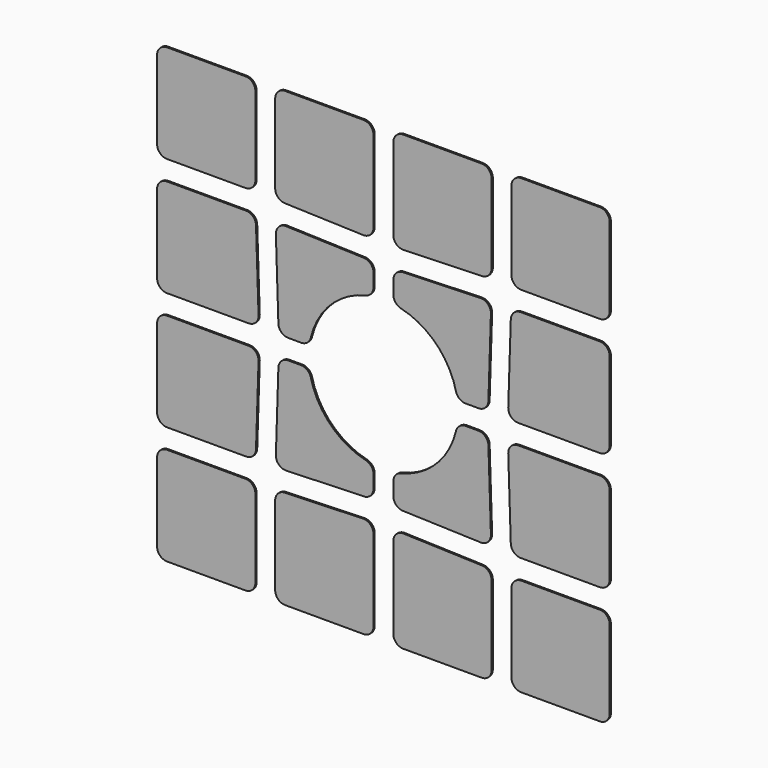
from build123d import *

# Parameters (mm, degrees)
F2_DEPTH = 0.2


with BuildPart() as f2:
    # F1 (on Front) → F2 (new body)
    with BuildSketch(Plane.XZ):
        with BuildLine():
            Line((12.9, 14.2), (2.6, 14.2))
            ThreePointArc((2.6, 14.2), (1.680761, 13.819239), (1.3, 12.9))
            Line((1.3, 12.9), (1.3, 2.6))
            ThreePointArc((1.3, 2.6), (1.680761, 1.680761), (2.6, 1.3))
            Line((2.6, 1.3), (12.9, 1.3))
            ThreePointArc((12.9, 1.3), (13.819239, 1.680761), (14.2, 2.6))
            Line((14.2, 2.6), (14.2, 12.9))
            ThreePointArc((14.2, 12.9), (13.819239, 13.819239), (12.9, 14.2))
        make_face()
        with BuildLine():
            ThreePointArc((18.058086, 14.281843), (17.16606, 13.886817), (16.8, 12.982519))
            Line((16.8, 12.982519), (16.8, 2.6))
            ThreePointArc((16.8, 2.6), (17.180761, 1.680761), (18.1, 1.3))
            Line((18.1, 1.3), (28.4, 1.3))
            ThreePointArc((28.4, 1.3), (29.319239, 1.680761), (29.7, 2.6))
            Line((29.7, 2.6), (29.7, 13.314777))
            ThreePointArc((29.7, 13.314777), (29.304299, 14.248717), (28.358086, 14.614101))
            Line((28.358086, 14.614101), (18.058086, 14.281843))
        make_face()
        with BuildLine():
            ThreePointArc((28.441914, 17.218157), (29.33394, 17.613183), (29.7, 18.517481))
            Line((29.7, 18.517481), (29.7, 20.2088))
            ThreePointArc((29.7, 20.2088), (29.421238, 21.013208), (28.704505, 21.472634))
            ThreePointArc((28.704505, 21.472634), (24.070354, 24.070354), (21.472634, 28.704505))
            ThreePointArc((21.472634, 28.704505), (21.013208, 29.421238), (20.2088, 29.7))
            Line((20.2088, 29.7), (18.517481, 29.7))
            ThreePointArc((18.517481, 29.7), (17.613183, 29.33394), (17.218157, 28.441914))
            Line((17.218157, 28.441914), (16.88874, 18.229978))
            ThreePointArc((16.88874, 18.229978), (17.268825, 17.268825), (18.229978, 16.88874))
            Line((18.229978, 16.88874), (28.441914, 17.218157))
        make_face()
        with BuildLine():
            ThreePointArc((1.3, 18.1), (1.680761, 17.180761), (2.6, 16.8))
            Line((2.6, 16.8), (12.982519, 16.8))
            ThreePointArc((12.982519, 16.8), (13.886817, 17.16606), (14.281843, 18.058086))
            Line((14.281843, 18.058086), (14.614101, 28.358086))
            ThreePointArc((14.614101, 28.358086), (14.248717, 29.304299), (13.314777, 29.7))
            Line((13.314777, 29.7), (2.6, 29.7))
            ThreePointArc((2.6, 29.7), (1.680761, 29.319239), (1.3, 28.4))
            Line((1.3, 28.4), (1.3, 18.1))
        make_face()
        with BuildLine():
            ThreePointArc((43.9, 1.3), (44.819239, 1.680761), (45.2, 2.6))
            Line((45.2, 2.6), (45.2, 12.982519))
            ThreePointArc((45.2, 12.982519), (44.83394, 13.886817), (43.941914, 14.281843))
            Line((43.941914, 14.281843), (33.641914, 14.614101))
            ThreePointArc((33.641914, 14.614101), (32.695701, 14.248717), (32.3, 13.314777))
            Line((32.3, 13.314777), (32.3, 2.6))
            ThreePointArc((32.3, 2.6), (32.680761, 1.680761), (33.6, 1.3))
            Line((33.6, 1.3), (43.9, 1.3))
        make_face()
        with BuildLine():
            ThreePointArc((43.770022, 16.88874), (44.731175, 17.268825), (45.11126, 18.229978))
            Line((45.11126, 18.229978), (44.781843, 28.441914))
            ThreePointArc((44.781843, 28.441914), (44.386817, 29.33394), (43.482519, 29.7))
            Line((43.482519, 29.7), (41.7912, 29.7))
            ThreePointArc((41.7912, 29.7), (40.986792, 29.421238), (40.527366, 28.704505))
            ThreePointArc((40.527366, 28.704505), (37.929646, 24.070354), (33.295495, 21.472634))
            ThreePointArc((33.295495, 21.472634), (32.578762, 21.013208), (32.3, 20.2088))
            Line((32.3, 20.2088), (32.3, 18.517481))
            ThreePointArc((32.3, 18.517481), (32.66606, 17.613183), (33.558086, 17.218157))
            Line((33.558086, 17.218157), (43.770022, 16.88874))
        make_face()
        with BuildLine():
            Line((60.7, 18.1), (60.7, 28.4))
            ThreePointArc((60.7, 28.4), (60.319239, 29.319239), (59.4, 29.7))
            Line((59.4, 29.7), (48.685223, 29.7))
            ThreePointArc((48.685223, 29.7), (47.751283, 29.304299), (47.385899, 28.358086))
            Line((47.385899, 28.358086), (47.718157, 18.058086))
            ThreePointArc((47.718157, 18.058086), (48.113183, 17.16606), (49.017481, 16.8))
            Line((49.017481, 16.8), (59.4, 16.8))
            ThreePointArc((59.4, 16.8), (60.319239, 17.180761), (60.7, 18.1))
        make_face()
        with BuildLine():
            ThreePointArc((60.7, 12.9), (60.319239, 13.819239), (59.4, 14.2))
            Line((59.4, 14.2), (49.1, 14.2))
            ThreePointArc((49.1, 14.2), (48.180761, 13.819239), (47.8, 12.9))
            Line((47.8, 12.9), (47.8, 2.6))
            ThreePointArc((47.8, 2.6), (48.180761, 1.680761), (49.1, 1.3))
            Line((49.1, 1.3), (59.4, 1.3))
            ThreePointArc((59.4, 1.3), (60.319239, 1.680761), (60.7, 2.6))
            Line((60.7, 2.6), (60.7, 12.9))
        make_face()
        with BuildLine():
            ThreePointArc((18.1, 60.7), (17.180761, 60.319239), (16.8, 59.4))
            Line((16.8, 59.4), (16.8, 49.017481))
            ThreePointArc((16.8, 49.017481), (17.16606, 48.113183), (18.058086, 47.718157))
            Line((18.058086, 47.718157), (28.358086, 47.385899))
            ThreePointArc((28.358086, 47.385899), (29.304299, 47.751283), (29.7, 48.685223))
            Line((29.7, 48.685223), (29.7, 59.4))
            ThreePointArc((29.7, 59.4), (29.319239, 60.319239), (28.4, 60.7))
            Line((28.4, 60.7), (18.1, 60.7))
        make_face()
        with BuildLine():
            Line((45.2, 49.017481), (45.2, 59.4))
            ThreePointArc((45.2, 59.4), (44.819239, 60.319239), (43.9, 60.7))
            Line((43.9, 60.7), (33.6, 60.7))
            ThreePointArc((33.6, 60.7), (32.680761, 60.319239), (32.3, 59.4))
            Line((32.3, 59.4), (32.3, 48.685223))
            ThreePointArc((32.3, 48.685223), (32.695701, 47.751283), (33.641914, 47.385899))
            Line((33.641914, 47.385899), (43.941914, 47.718157))
            ThreePointArc((43.941914, 47.718157), (44.83394, 48.113183), (45.2, 49.017481))
        make_face()
        with BuildLine():
            Line((60.7, 49.1), (60.7, 59.4))
            ThreePointArc((60.7, 59.4), (60.319239, 60.319239), (59.4, 60.7))
            Line((59.4, 60.7), (49.1, 60.7))
            ThreePointArc((49.1, 60.7), (48.180761, 60.319239), (47.8, 59.4))
            Line((47.8, 59.4), (47.8, 49.1))
            ThreePointArc((47.8, 49.1), (48.180761, 48.180761), (49.1, 47.8))
            Line((49.1, 47.8), (59.4, 47.8))
            ThreePointArc((59.4, 47.8), (60.319239, 48.180761), (60.7, 49.1))
        make_face()
        with BuildLine():
            ThreePointArc((33.558086, 44.781843), (32.66606, 44.386817), (32.3, 43.482519))
            Line((32.3, 43.482519), (32.3, 41.7912))
            ThreePointArc((32.3, 41.7912), (32.578762, 40.986792), (33.295495, 40.527366))
            ThreePointArc((33.295495, 40.527366), (37.929646, 37.929646), (40.527366, 33.295495))
            ThreePointArc((40.527366, 33.295495), (40.986792, 32.578762), (41.7912, 32.3))
            Line((41.7912, 32.3), (43.482519, 32.3))
            ThreePointArc((43.482519, 32.3), (44.386817, 32.66606), (44.781843, 33.558086))
            Line((44.781843, 33.558086), (45.11126, 43.770022))
            ThreePointArc((45.11126, 43.770022), (44.731175, 44.731175), (43.770022, 45.11126))
            Line((43.770022, 45.11126), (33.558086, 44.781843))
        make_face()
        with BuildLine():
            ThreePointArc((18.229978, 45.11126), (17.268825, 44.731175), (16.88874, 43.770022))
            Line((16.88874, 43.770022), (17.218157, 33.558086))
            ThreePointArc((17.218157, 33.558086), (17.613183, 32.66606), (18.517481, 32.3))
            Line((18.517481, 32.3), (20.2088, 32.3))
            ThreePointArc((20.2088, 32.3), (21.013208, 32.578762), (21.472634, 33.295495))
            ThreePointArc((21.472634, 33.295495), (24.070354, 37.929646), (28.704505, 40.527366))
            ThreePointArc((28.704505, 40.527366), (29.421238, 40.986792), (29.7, 41.7912))
            Line((29.7, 41.7912), (29.7, 43.482519))
            ThreePointArc((29.7, 43.482519), (29.33394, 44.386817), (28.441914, 44.781843))
            Line((28.441914, 44.781843), (18.229978, 45.11126))
        make_face()
        with BuildLine():
            ThreePointArc((49.017481, 45.2), (48.113183, 44.83394), (47.718157, 43.941914))
            Line((47.718157, 43.941914), (47.385899, 33.641914))
            ThreePointArc((47.385899, 33.641914), (47.751283, 32.695701), (48.685223, 32.3))
            Line((48.685223, 32.3), (59.4, 32.3))
            ThreePointArc((59.4, 32.3), (60.319239, 32.680761), (60.7, 33.6))
            Line((60.7, 33.6), (60.7, 43.9))
            ThreePointArc((60.7, 43.9), (60.319239, 44.819239), (59.4, 45.2))
            Line((59.4, 45.2), (49.017481, 45.2))
        make_face()
        with BuildLine():
            ThreePointArc((12.9, 47.8), (13.819239, 48.180761), (14.2, 49.1))
            Line((14.2, 49.1), (14.2, 59.4))
            ThreePointArc((14.2, 59.4), (13.819239, 60.319239), (12.9, 60.7))
            Line((12.9, 60.7), (2.6, 60.7))
            ThreePointArc((2.6, 60.7), (1.680761, 60.319239), (1.3, 59.4))
            Line((1.3, 59.4), (1.3, 49.1))
            ThreePointArc((1.3, 49.1), (1.680761, 48.180761), (2.6, 47.8))
            Line((2.6, 47.8), (12.9, 47.8))
        make_face()
        with BuildLine():
            Line((12.982519, 45.2), (2.6, 45.2))
            ThreePointArc((2.6, 45.2), (1.680761, 44.819239), (1.3, 43.9))
            Line((1.3, 43.9), (1.3, 33.6))
            ThreePointArc((1.3, 33.6), (1.680761, 32.680761), (2.6, 32.3))
            Line((2.6, 32.3), (13.314777, 32.3))
            ThreePointArc((13.314777, 32.3), (14.248717, 32.695701), (14.614101, 33.641914))
            Line((14.614101, 33.641914), (14.281843, 43.941914))
            ThreePointArc((14.281843, 43.941914), (13.886817, 44.83394), (12.982519, 45.2))
        make_face()
    extrude(amount=F2_DEPTH)


solid = f2.part
